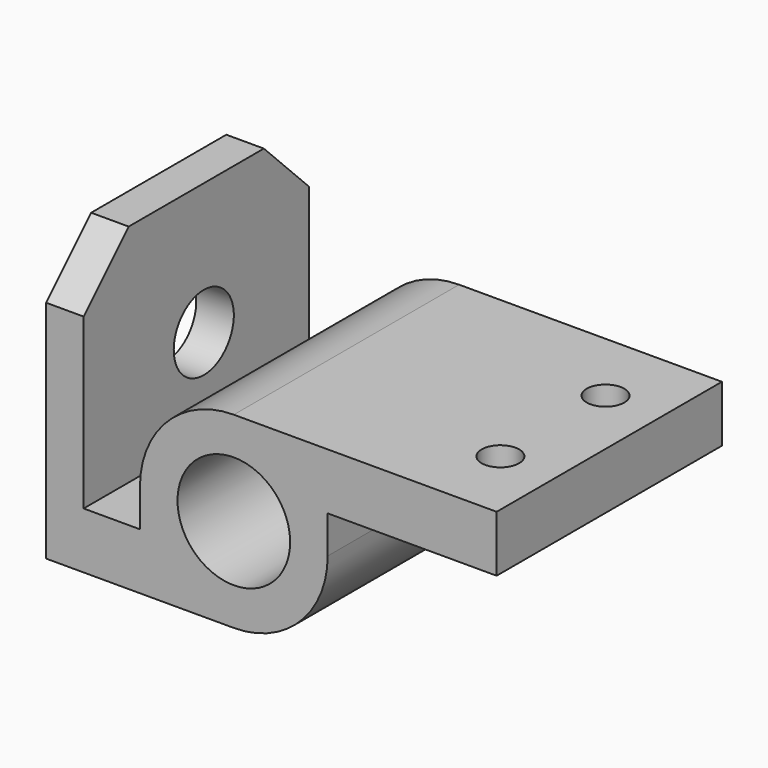
from build123d import *

# Parameters (mm, degrees)
F0_R     = 15
F1_DEPTH = 75
F2_R     = 10
F3_DEPTH = 10
F4_R     = 5
F5_DEPTH = 15


with BuildPart() as f1:
    # F0 (on Front) → F1 (new body)
    with BuildSketch(Plane.XZ):
        with BuildLine():
            Line((70, 25), (0, 25))
            ThreePointArc((0, 25), (-17.67767, 17.67767), (-25, 0))
            Line((-25, 0), (-25, -10))
            Line((-25, -10), (-40, -10))
            Line((-40, -10), (-40, 50))
            Line((-40, 50), (-50, 50))
            Line((-50, 50), (-50, -25))
            Line((-50, -25), (0, -25))
            ThreePointArc((0, -25), (17.67767, -17.67767), (25, 0))
            Line((25, 0), (25, 10))
            Line((25, 10), (70, 10))
            Line((70, 10), (70, 25))
        make_face()
        Circle(F0_R, mode=Mode.SUBTRACT)
    extrude(amount=F1_DEPTH)

    # F2 (on face) → F3 (cut)
    with BuildSketch(Plane(origin=(-50, 0, 0), x_dir=(0, -1, 0), z_dir=(-1, 0, 0))):
        Polygon((0, 35), (15, 50), (0, 50), align=None)
        Polygon((75, 50), (60, 50), (75, 35), align=None)
        with Locations((35, 15)):
            Circle(F2_R)
    extrude(amount=-F3_DEPTH, mode=Mode.SUBTRACT)

    # F4 (on face) → F5 (cut)
    with BuildSketch(Plane.XY.offset(25)):
        with Locations((55, -20)):
            Circle(F4_R)
        with Locations((55, -55)):
            Circle(F4_R)
    extrude(amount=-F5_DEPTH, mode=Mode.SUBTRACT)


solid = f1.part
